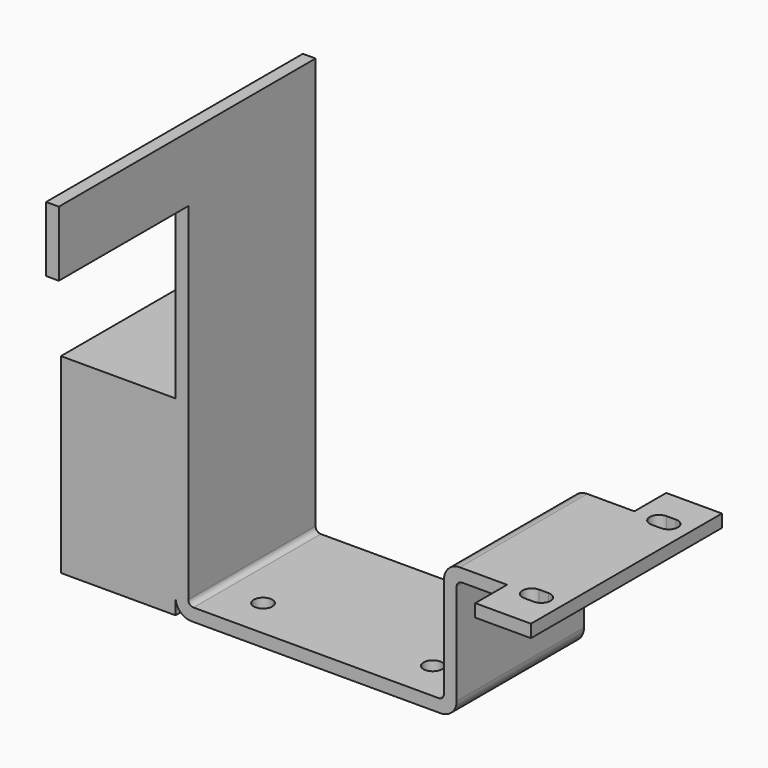
from build123d import *

# Parameters (mm, degrees)
F1_DEPTH  = 15
F2_W      = 2.4
F2_H      = 12.3
F3_DEPTH  = 30.5
F2_W_2    = 10.5
F2_H_2    = 2.4
F4_DEPTH  = 7.5
F5_W      = 10.5
F5_H      = 2.4
F6_DEPTH  = 7.5
F8_DEPTH  = 2.4
F9_R      = 3
F10_R     = 1
F11_W     = 30
F11_H     = 33
F11_H_2   = 3
F12_DEPTH = 21.6
F13_R     = 1.75
F14_DEPTH = 2.4


with BuildPart() as f1:
    # F0 (on Front) → F1 (new body, symmetric)
    with BuildSketch(Plane.XZ):
        Polygon((-53, 0), (0, 0), (0, 23), (20, 23), (20, 25.4), (-2.4, 25.4), (-2.4, 2.4), (-50.6, 2.4), (-50.6, 81), (-53, 81), align=None)
    extrude(amount=F1_DEPTH, both=True)

    # F2 (on face) → F3 (join)
    with BuildSketch(Plane.XZ.offset(15)):
        with Locations((-51.8, 74.85)):
            Rectangle(F2_W, F2_H)
    extrude(amount=F3_DEPTH)

    # F2 (on face) → F4 (join)
    with BuildSketch(Plane.XZ.offset(15)):
        with Locations((14.75, 24.2)):
            Rectangle(F2_W_2, F2_H_2)
    extrude(amount=F4_DEPTH)

    # F5 (on face) → F6 (join)
    with BuildSketch(Plane(origin=(0, 15, 0), x_dir=(-1, 0, 0), z_dir=(0, 1, 0))):
        with Locations((-14.75, 24.2)):
            Rectangle(F5_W, F5_H)
    extrude(amount=F6_DEPTH)

    # F7 (on face) → F8 (cut, through all)
    with BuildSketch(Plane.XY.offset(25.4)):
        with BuildLine():
            ThreePointArc((15.05, -13.499166898), (14.6169272275, -13.3134416807), (14.15, -13.25))
            ThreePointArc((14.15, -13.25), (12.4, -15), (14.15, -16.75))
            ThreePointArc((14.15, -16.75), (14.6169272275, -16.6865583193), (15.05, -16.500833102))
            ThreePointArc((15.05, -16.500833102), (14.2, -15), (15.05, -13.499166898))
        make_face()
        with BuildLine():
            ThreePointArc((15.9, -15), (15.6727442333, -14.1375905845), (15.05, -13.499166898))
            ThreePointArc((15.05, -13.499166898), (14.2, -15), (15.05, -16.500833102))
            ThreePointArc((15.05, -16.500833102), (15.6727442333, -15.8624094155), (15.9, -15))
        make_face()
        with BuildLine():
            ThreePointArc((15.95, -13.25), (15.4830727725, -13.3134416807), (15.05, -13.499166898))
            ThreePointArc((15.05, -13.499166898), (15.6727442333, -14.1375905845), (15.9, -15))
            ThreePointArc((15.9, -15), (15.6727442333, -15.8624094155), (15.05, -16.500833102))
            ThreePointArc((15.05, -16.500833102), (15.4830727725, -16.6865583193), (15.95, -16.75))
            ThreePointArc((15.95, -16.75), (17.1874368671, -16.2374368671), (17.7, -15))
            ThreePointArc((17.7, -15), (17.1874368671, -13.7625631329), (15.95, -13.25))
        make_face()
        with BuildLine():
            Line((15.95, -13.25), (14.15, -13.25))
            ThreePointArc((14.15, -13.25), (14.6169272275, -13.3134416807), (15.05, -13.499166898))
            ThreePointArc((15.05, -13.499166898), (15.4830727725, -13.3134416807), (15.95, -13.25))
        make_face()
        with BuildLine():
            ThreePointArc((15.05, -16.500833102), (14.6169272275, -16.6865583193), (14.15, -16.75))
            Line((14.15, -16.75), (15.95, -16.75))
            ThreePointArc((15.95, -16.75), (15.4830727725, -16.6865583193), (15.05, -16.500833102))
        make_face()
        with BuildLine():
            ThreePointArc((15.05, 16.500833102), (14.6169272275, 16.6865583193), (14.15, 16.75))
            ThreePointArc((14.15, 16.75), (12.4, 15), (14.15, 13.25))
            ThreePointArc((14.15, 13.25), (14.6169272275, 13.3134416807), (15.05, 13.499166898))
            ThreePointArc((15.05, 13.499166898), (14.2, 15), (15.05, 16.500833102))
        make_face()
        with BuildLine():
            ThreePointArc((15.9, 15), (15.6727442333, 15.8624094155), (15.05, 16.500833102))
            ThreePointArc((15.05, 16.500833102), (14.2, 15), (15.05, 13.499166898))
            ThreePointArc((15.05, 13.499166898), (15.6727442333, 14.1375905845), (15.9, 15))
        make_face()
        with BuildLine():
            ThreePointArc((15.95, 16.75), (15.4830727725, 16.6865583193), (15.05, 16.500833102))
            ThreePointArc((15.05, 16.500833102), (15.6727442333, 15.8624094155), (15.9, 15))
            ThreePointArc((15.9, 15), (15.6727442333, 14.1375905845), (15.05, 13.499166898))
            ThreePointArc((15.05, 13.499166898), (15.4830727725, 13.3134416807), (15.95, 13.25))
            ThreePointArc((15.95, 13.25), (17.1874368671, 13.7625631329), (17.7, 15))
            ThreePointArc((17.7, 15), (17.1874368671, 16.2374368671), (15.95, 16.75))
        make_face()
        with BuildLine():
            Line((15.95, 16.75), (14.15, 16.75))
            ThreePointArc((14.15, 16.75), (14.6169272275, 16.6865583193), (15.05, 16.500833102))
            ThreePointArc((15.05, 16.500833102), (15.4830727725, 16.6865583193), (15.95, 16.75))
        make_face()
        with BuildLine():
            ThreePointArc((15.05, 13.499166898), (14.6169272275, 13.3134416807), (14.15, 13.25))
            Line((14.15, 13.25), (15.95, 13.25))
            ThreePointArc((15.95, 13.25), (15.4830727725, 13.3134416807), (15.05, 13.499166898))
        make_face()
    extrude(amount=-F8_DEPTH, mode=Mode.SUBTRACT)

    # F9
    f9_edges = [f1.edges().sort_by_distance(p)[0] for p in [
        (-2.4, 0, 25.4),
        (0, 0, 0),
        (-53, 0, 0),
    ]]
    fillet(f9_edges, radius=F9_R)

    # F10
    f10_edges = [f1.edges().sort_by_distance(p)[0] for p in [
        (-50.6, 0, 2.4),
        (-2.4, 0, 2.4),
        (0, 0, 23),
    ]]
    fillet(f10_edges, radius=F10_R)

    # F11 (on face) → F12 (join)
    with BuildSketch(Plane(origin=(-53, 0, 0), x_dir=(0, -1, 0), z_dir=(-1, 0, 0))):
        with Locations((0, 19.5)):
            Rectangle(F11_W, F11_H)
        with Locations((0, 1.5)):
            Rectangle(F11_W, F11_H_2)
    extrude(amount=F12_DEPTH)

    # F13 (on face) → F14 (cut, through all)
    with BuildSketch(Plane(origin=(0, 0, 0), x_dir=(1, 0, 0), z_dir=(0, 0, -1))):
        with Locations((-42.5, 7.5)):
            Circle(F13_R)
        with Locations((-10.5, 7.5)):
            Circle(F13_R)
    extrude(amount=-F14_DEPTH, mode=Mode.SUBTRACT)


solid = f1.part
